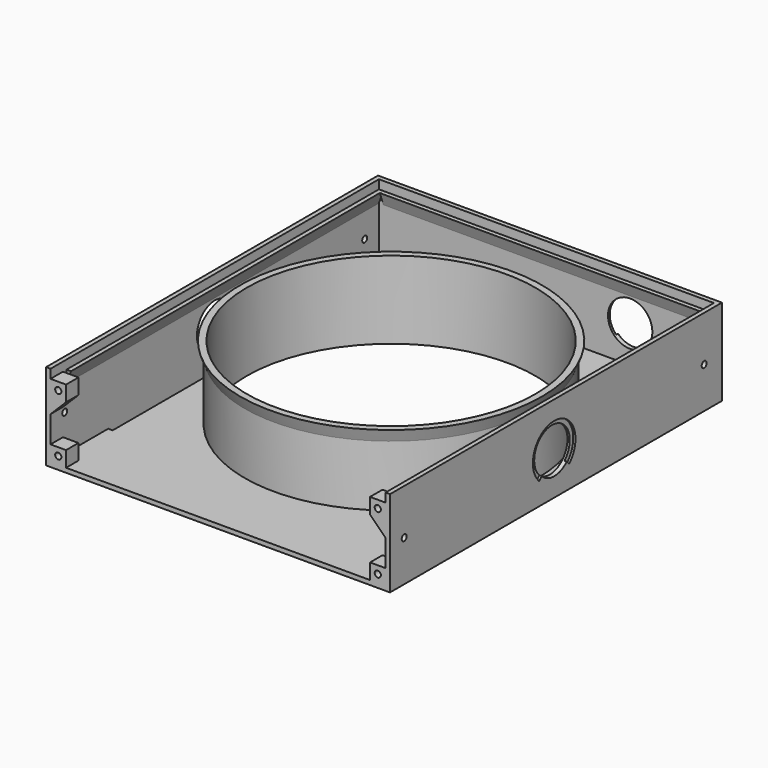
from build123d import *

# Parameters (mm, degrees)
SKETCH039_W       = 155
SKETCH039_H       = 187
SKETCH039_R       = 65
PAD004_DEPTH      = 2
PAD005_DEPTH      = 37
SKETCH041_R       = 66
SKETCH041_R_2     = 65
PAD006_DEPTH      = 33
PAD007_DEPTH      = 176
PAD012_DEPTH      = 73.5
PAD012_DEPTH_BACK = 73.5
SKETCH054_W       = 2
SKETCH054_H       = 130
POCKET013_DEPTH   = 2
SKETCH067_R       = 10
POCKET015_DEPTH   = 2
SKETCH068_W       = 7
SKETCH068_H       = 7
SKETCH068_R       = 1.4
PAD022_DEPTH      = 7
POCKET017_DEPTH   = 1
POCKET018_DEPTH   = 1
SKETCH074_R       = 10
POCKET019_DEPTH   = 2
SKETCH075_R       = 1.4
POCKET020_DEPTH   = 2


with BuildPart() as part:
    # Sketch039 → Pad004 (new body)
    with BuildSketch(Plane.XY):
        with Locations((0, -4)):
            Rectangle(SKETCH039_W, SKETCH039_H)
        Circle(SKETCH039_R, mode=Mode.SUBTRACT)
    extrude(amount=PAD004_DEPTH)

    # Sketch040 (on DatumPlane) → Pad005 (join)
    with BuildSketch(Plane.XY.offset(2)):
        Polygon((-77.5, 89.5), (77.5, 89.5), (77.5, -97.5), (75.5, -97.5), (75.5, 87.5), (-75.5, 87.5), (-75.5, -97.5), (-77.5, -97.5), align=None)
    extrude(amount=PAD005_DEPTH)

    # Sketch041 (on DatumPlane) → Pad006 (join)
    with BuildSketch(Plane.XY.offset(2)):
        Circle(SKETCH041_R)
        Circle(SKETCH041_R_2, mode=Mode.SUBTRACT)
    extrude(amount=PAD006_DEPTH)

    # Sketch042 (on DatumPlane) → Pad007 (join)
    with BuildSketch(Plane.XZ.offset(88.5)):
        Polygon((75.5, 29.505045), (75.5, 35), (73.5, 35), align=None)
    pad007 = extrude(amount=-PAD007_DEPTH)

    # Mirrored004: Pad007 across YZ
    add(pad007.mirror(Plane.YZ))

    # Sketch047 → Revolution (revolve)
    with BuildSketch(Plane.XZ):
        Polygon((66, 35), (68, 35), (66, 29.505045), align=None)
    revolve(axis=Axis((0, 0, 0), (0, 0, 1)))

    # Sketch048 → Pad012 (join, two sides)
    with BuildSketch(Plane.YZ) as pad012_sk:
        Polygon((87.5, 35), (87.5, 29.505045), (85.5, 35), align=None)
    extrude(amount=PAD012_DEPTH)
    extrude(pad012_sk.sketch, amount=-PAD012_DEPTH_BACK)

    # Sketch054 → Pocket013 (cut)
    with BuildSketch(Plane.XY):
        with Locations((74.5, 0)):
            Rectangle(SKETCH054_W, SKETCH054_H)
    pocket013 = extrude(amount=POCKET013_DEPTH, mode=Mode.SUBTRACT)

    # Mirrored007: Pocket013 across Sketch054 V_Axis
    add(pocket013.mirror(Plane(origin=(0, 0, 0), x_dir=(0, 0, 1), z_dir=(1, 0, 0))), mode=Mode.SUBTRACT)

    # Sketch067 (on DatumPlane) → Pocket015 (cut)
    with BuildSketch(Plane.XZ.offset(-89.5)):
        with Locations((37.75, 18.5)):
            Circle(SKETCH067_R)
    extrude(amount=POCKET015_DEPTH, mode=Mode.SUBTRACT)

    # Sketch068 (on DatumPlane) → Pad022 (join)
    with BuildSketch(Plane.XZ.offset(97.5)):
        with Locations((-72, 5.5)):
            Rectangle(SKETCH068_W, SKETCH068_H)
        with Locations((-72, 5.5)):
            Circle(SKETCH068_R, mode=Mode.SUBTRACT)
        Polygon((-68.5, 28), (-68.5, 35), (-75.5, 35), (-75.5, 21), align=None)
        with Locations((-72, 31.5)):
            Circle(SKETCH068_R, mode=Mode.SUBTRACT)
    pad022 = extrude(amount=-PAD022_DEPTH)

    # Mirrored009: Pad022 across Sketch068 V_Axis
    add(pad022.mirror(Plane(origin=(0, -97.5, 0), x_dir=(0, -1, 0), z_dir=(1, 0, 0))))

    # Sketch070 (on DatumPlane) → Pocket017 (cut)
    with BuildSketch(Plane.XZ.offset(-89.5)):
        with BuildLine():
            ThreePointArc((44.821068, 11.428932), (37.75, 28.5), (30.678932, 11.428932))
            Line((30.678932, 11.428932), (29.264719, 10.014719))
            ThreePointArc((46.235271, 10.014709), (37.750007, 30.5), (29.264719, 10.014719))
            Line((44.821068, 11.428932), (46.235271, 10.014709))
        make_face()
    extrude(amount=POCKET017_DEPTH, mode=Mode.SUBTRACT)

    # Sketch073 (on DatumPlane) → Pocket018 (cut)
    with BuildSketch(Plane.YZ.offset(77.5)):
        with BuildLine():
            ThreePointArc((2.071068, 11.428932), (-5, 28.5), (-12.071068, 11.428932))
            Line((-13.485281, 10.014719), (-12.071068, 11.428932))
            ThreePointArc((3.485291, 10.014728), (-5.000007, 30.5), (-13.485281, 10.014719))
            Line((2.071068, 11.428932), (3.485291, 10.014728))
        make_face()
    pocket018 = extrude(amount=-POCKET018_DEPTH, mode=Mode.SUBTRACT)

    # Sketch074 (on DatumPlane) → Pocket019 (cut)
    with BuildSketch(Plane.YZ.offset(77.5)):
        with Locations((-5, 18.5)):
            Circle(SKETCH074_R)
    pocket019 = extrude(amount=-POCKET019_DEPTH, mode=Mode.SUBTRACT)

    # Mirrored011: Pocket019 across YZ
    add(pocket019.mirror(Plane.YZ), mode=Mode.SUBTRACT)

    # Mirrored012: Pocket018 across YZ
    add(pocket018.mirror(Plane.YZ), mode=Mode.SUBTRACT)

    # Sketch075 (on DatumPlane) → Pocket020 (cut)
    with BuildSketch(Plane.YZ.offset(77.5)):
        with Locations((-89.5, 18.5)):
            Circle(SKETCH075_R)
        with Locations((79.5, 18.5)):
            Circle(SKETCH075_R)
    pocket020 = extrude(amount=-POCKET020_DEPTH, mode=Mode.SUBTRACT)

    # Mirrored013: Pocket020 across YZ
    add(pocket020.mirror(Plane.YZ), mode=Mode.SUBTRACT)


with BuildPart() as part_1:
    # Body004 placement: moved
    add(part.part.moved(Location((0, 0, -35))))


solid = part_1.part
